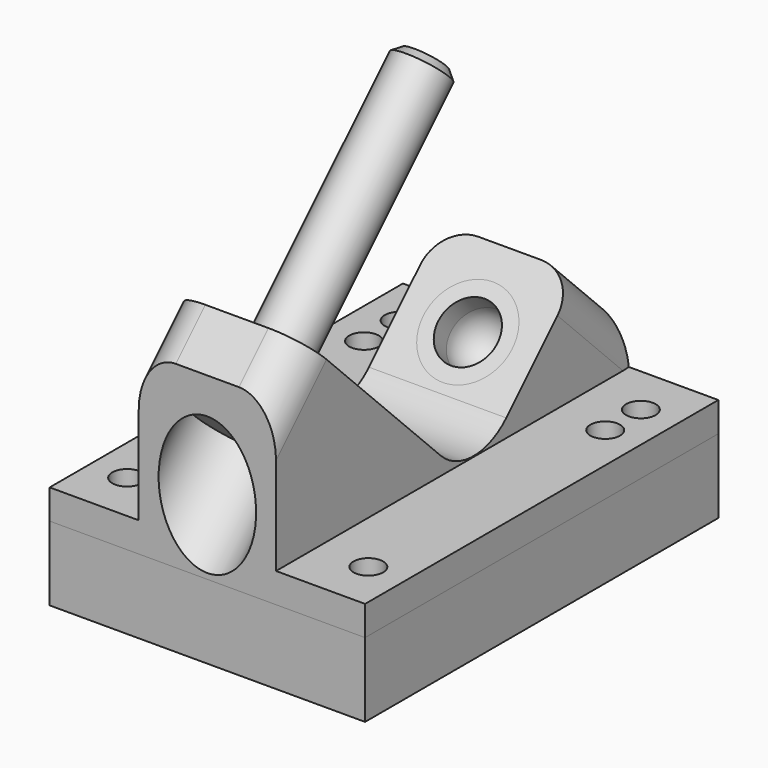
from build123d import *

# Parameters (mm, degrees)
F1_DEPTH  = 26.9875
F2_R      = 9.906
F3_W      = 75.565
F3_H      = 31.9594877579
F4_DEPTH  = 15.24
F5_R      = 2.54
F6_DEPTH  = 5.08
F11_R     = 6.35
F17_SIZE  = 1.27
F18_W     = 53.975
F18_H     = 75.565
F18_R     = 2.54
F19_DEPTH = 12.7


with BuildPart() as f1:
    # F0 (on Right) → F1 (new body)
    with BuildSketch(Plane.YZ):
        Polygon((0, 30.7152561211), (0, 0), (75.565, 0), (75.565, 12.7), (64.6958964237, 23.5691035763), (42.2452561211, 1.1184632736), (6.3242316368, 37.0394877579), align=None)
    extrude(amount=F1_DEPTH)

    # F2
    f2_edges = [f1.edges().sort_by_distance(p)[0] for p in [
        (13.49375, 42.245256, 1.118463),
    ]]
    fillet(f2_edges, radius=F2_R)

    # F3 (on face) → F4 (cut)
    with BuildSketch(Plane.YZ.offset(26.9875)):
        with Locations((37.7825, 21.0597438789)):
            Rectangle(F3_W, F3_H)
    extrude(amount=-F4_DEPTH, mode=Mode.SUBTRACT)

    # F5 (on face) → F6 (cut, through all)
    with BuildSketch(Plane(origin=(0, 0, 0), x_dir=(1, 0, 0), z_dir=(0, 0, -1))):
        with Locations((20.6375, -8.636)):
            Circle(F5_R)
        with Locations((20.6375, -59.309)):
            Circle(F5_R)
        with Locations((20.6375, -66.929)):
            Circle(F5_R)
    extrude(amount=-F6_DEPTH, mode=Mode.SUBTRACT)

    # F7 (on face) → F8 (revolve, cut)
    with BuildSketch(Plane(origin=(0, 0, 0), x_dir=(0, -1, 0), z_dir=(-1, 0, 0))):
        Polygon((-5.2016996217, 24.6916355914), (-11.9368917125, 31.4268276822), (-15.3044877579, 28.0592316368), (6.3773719395, 6.3773719395), (12.277400211, 12.277400211), (-2.6692673955, 27.2240678175), align=None)
    revolve(axis=Axis((0, 4.4635579092, 17.2183017881), (0, 0.7071067812, 0.7071067812)), mode=Mode.SUBTRACT)

    # F11
    f11_edges = [f1.edges().sort_by_distance(p)[0] for p in [
        (11.7475, 70.130448, 18.134552),
        (11.7475, 3.162116, 33.877372),
    ]]
    fillet(f11_edges, radius=F11_R)

    # F12 (on Right) → F13 (revolve, cut)
    with BuildSketch(Plane.YZ):
        Polygon((70.0840500964, 10.9967450068), (61.1037939753, 19.9770011278), (55.7156403027, 14.5888474552), (64.6958964237, 5.6085913341), align=None)
    revolve(axis=Axis((0, 60.2057683632, 10.0987193947), (0, -0.7071067812, 0.7071067812)), mode=Mode.SUBTRACT)

    # F16: F1 across plane


with BuildPart() as f10:
    # F9 (on Right) → F10 (revolve)
    with BuildSketch(Plane.YZ):
        Polygon((5.2016996217, 24.6916355914), (2.9566355914, 26.9366996217), (1.1605843672, 25.1406483974), (6.7732444428, 19.5279883218), (46.7353841816, 59.4901280605), (43.3677881362, 62.8577241059), align=None)
    revolve(axis=Axis((0, 26.7543143122, 39.5090581912), (0, -0.7071067812, -0.7071067812)))

    # F17
    f17_edges = [f10.edges().sort_by_distance(p)[0] for p in [
        (0, 50.10298, 56.122532),
    ]]
    chamfer(f17_edges, length=F17_SIZE)


with BuildPart() as f15:
    # F14 (on Right) → F15 (revolve)
    with BuildSketch(Plane.YZ):
        with BuildLine():
            Line((70.0840500964, 10.9967450068), (61.1037939753, 19.9770011278))
            Line((61.1037939753, 19.9770011278), (59.3077427511, 18.1809499036))
            Line((59.3077427511, 18.1809499036), (62.0018195874, 15.4868730673))
            ThreePointArc((62.0018195874, 15.4868730673), (63.489717139, 11.8947706189), (62.0018195874, 8.3026681704))
            Line((62.0018195874, 8.3026681704), (64.6958964237, 5.6085913341))
            Line((64.6958964237, 5.6085913341), (70.0840500964, 10.9967450068))
        make_face()
    revolve(axis=Axis((0, 40.0001920908, 30.3042956671), (0, -0.7071067812, 0.7071067812)))


with BuildPart() as f1_1:
    add(f1.part)
    add(f1.part.mirror(Plane.YZ))


with BuildPart() as f19:
    # F18 (on face) → F19 (new body)
    with BuildSketch(Plane(origin=(0, 0, 0), x_dir=(1, 0, 0), z_dir=(0, 0, -1))):
        with Locations((0, -37.7825)):
            Rectangle(F18_W, F18_H)
        with Locations((-20.6375, -66.929)):
            Circle(F18_R, mode=Mode.SUBTRACT)
        with Locations((20.6375, -66.929)):
            Circle(F18_R, mode=Mode.SUBTRACT)
        with Locations((-20.6375, -8.636)):
            Circle(F18_R, mode=Mode.SUBTRACT)
        with Locations((20.6375, -8.636)):
            Circle(F18_R, mode=Mode.SUBTRACT)
    extrude(amount=F19_DEPTH)


solid = Compound([f10.part, f15.part, f1_1.part, f19.part])
